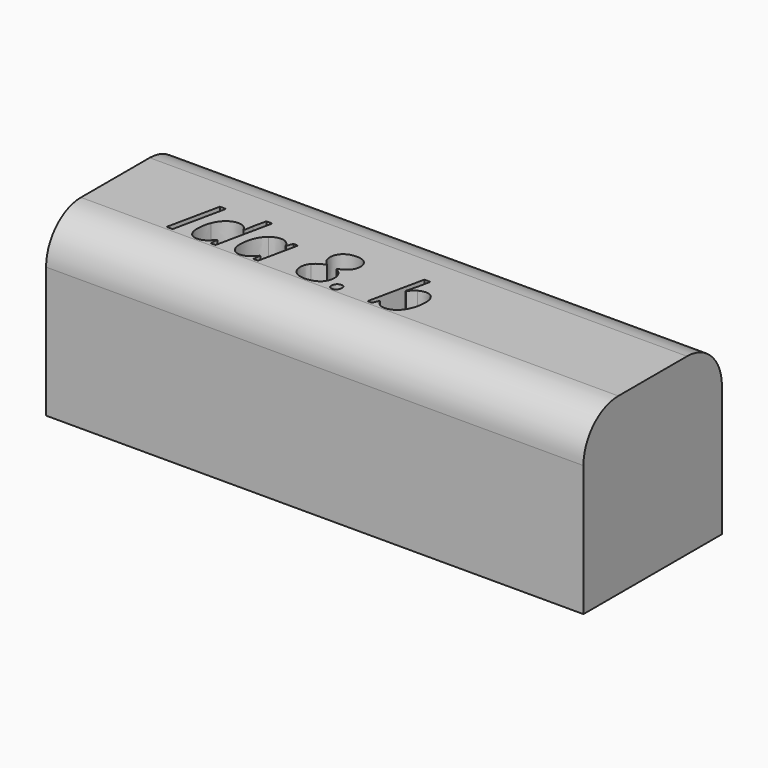
from build123d import *

# Parameters (mm, degrees)
F0_W     = 156.5491221845
F0_H     = 50.4242256284
F1_DEPTH = 50.8
F2_R     = 12.7
F4_DEPTH = 101.6


with BuildPart() as f1:
    # F0 (on Top) → F1 (new body)
    with BuildSketch(Plane.XY):
        with Locations((-61.6324953735, 25.2121128142)):
            Rectangle(F0_W, F0_H)
        Polygon((-113.8863454107, 13.5404672474), (-115.6491731526, 13.5404672474), (-112.3854235047, 28.8821052527), (-110.6225957628, 28.8821052527), align=None, mode=Mode.SUBTRACT)
        with BuildLine():
            add(Edge.make_bspline(
                [(-106.8618965801, 24.2114511784), (-105.5758717703, 25.228854618), (-103.9809323847, 25.228854618)],
                knots=[0, 0, 0, 1, 1, 1], degree=2))
            add(Edge.make_bspline(
                [(-103.9809323847, 25.228854618), (-101.9461255055, 25.228854618), (-101.0328128468, 23.2376987115)],
                knots=[0, 0, 0, 1, 1, 1], degree=2))
            Line((-101.0328128468, 23.2376987115), (-100.9287220659, 23.2376987115))
            add(Edge.make_bspline(
                [(-100.9287220659, 23.2376987115), (-100.7507604081, 24.8628580011), (-100.4552769009, 26.1119473726)],
                knots=[0, 0, 0, 1, 1, 1], degree=2))
            Line((-100.4552769009, 26.1119473726), (-99.6359817218, 29.8692887882))
            Line((-99.6359817218, 29.8692887882), (-97.8966583498, 29.8692887882))
            Line((-97.8966583498, 29.8692887882), (-101.3585162582, 13.5404672474))
            Line((-101.3585162582, 13.5404672474), (-102.8157871915, 13.5404672474))
            Line((-102.8157871915, 13.5404672474), (-102.5841012597, 15.7330891816))
            Line((-102.5841012597, 15.7330891816), (-102.6680454379, 15.7330891816))
            add(Edge.make_bspline(
                [(-102.6680454379, 15.7330891816), (-103.7290998502, 14.4235600019), (-104.6524858102, 13.8762439601)],
                knots=[0, 0, 0, 1, 1, 1], degree=2))
            add(Edge.make_bspline(
                [(-104.6524858102, 13.8762439601), (-105.5758717703, 13.3289279183), (-106.5630553057, 13.3289279183)],
                knots=[0, 0, 0, 1, 1, 1], degree=2))
            add(Edge.make_bspline(
                [(-106.5630553057, 13.3289279183), (-108.0203262391, 13.3289279183), (-108.8396214182, 14.3580835429)],
                knots=[0, 0, 0, 1, 1, 1], degree=2))
            add(Edge.make_bspline(
                [(-108.8396214182, 14.3580835429), (-109.6589165973, 15.3872391675), (-109.6589165973, 17.2138644848)],
                knots=[0, 0, 0, 1, 1, 1], degree=2))
            add(Edge.make_bspline(
                [(-109.6589165973, 17.2138644848), (-109.6589165973, 19.4602106931), (-108.9034189936, 21.3271292159)],
                knots=[0, 0, 0, 1, 1, 1], degree=2))
            add(Edge.make_bspline(
                [(-108.9034189936, 21.3271292159), (-108.1479213899, 23.1940477388), (-106.8618965801, 24.2114511784)],
                knots=[0, 0, 0, 1, 1, 1], degree=2))
        make_face(mode=Mode.SUBTRACT)
        with BuildLine():
            add(Edge.make_bspline(
                [(-67.987347662, 13.5085684597), (-68.2710789843, 13.7822264805), (-68.2710789843, 14.3161114538)],
                knots=[0, 0, 0, 1, 1, 1], degree=2))
            add(Edge.make_bspline(
                [(-68.2710789843, 14.3161114538), (-68.2710789843, 15.1253333315), (-67.8446425591, 15.6021362636)],
                knots=[0, 0, 0, 1, 1, 1], degree=2))
            add(Edge.make_bspline(
                [(-67.8446425591, 15.6021362636), (-67.4182061339, 16.0789391957), (-66.6761395987, 16.0789391957)],
                knots=[0, 0, 0, 1, 1, 1], degree=2))
            add(Edge.make_bspline(
                [(-66.6761395987, 16.0789391957), (-66.2228410365, 16.0789391957), (-65.9458252485, 15.8069600584)],
                knots=[0, 0, 0, 1, 1, 1], degree=2))
            add(Edge.make_bspline(
                [(-65.9458252485, 15.8069600584), (-65.6688094605, 15.5349809211), (-65.6688094605, 14.9775915779)],
                knots=[0, 0, 0, 1, 1, 1], degree=2))
            add(Edge.make_bspline(
                [(-65.6688094605, 14.9775915779), (-65.6688094605, 14.2321672756), (-66.0885303514, 13.7335388572)],
                knots=[0, 0, 0, 1, 1, 1], degree=2))
            add(Edge.make_bspline(
                [(-66.0885303514, 13.7335388572), (-66.5082512423, 13.2349104388), (-67.2200978734, 13.2349104388)],
                knots=[0, 0, 0, 1, 1, 1], degree=2))
            add(Edge.make_bspline(
                [(-67.2200978734, 13.2349104388), (-67.7036163397, 13.2349104388), (-67.987347662, 13.5085684597)],
                knots=[0, 0, 0, 1, 1, 1], degree=2))
        make_face(mode=Mode.SUBTRACT)
        with BuildLine():
            add(Edge.make_bspline(
                [(-94.4532681606, 24.1913045757), (-93.1420600973, 25.2523589879), (-91.5773406159, 25.2523589879)],
                knots=[0, 0, 0, 1, 1, 1], degree=2))
            add(Edge.make_bspline(
                [(-91.5773406159, 25.2523589879), (-90.6136614503, 25.2523589879), (-89.8581638467, 24.7319050832)],
                knots=[0, 0, 0, 1, 1, 1], degree=2))
            add(Edge.make_bspline(
                [(-89.8581638467, 24.7319050832), (-89.102666243, 24.2114511784), (-88.682945352, 23.2376987115)],
                knots=[0, 0, 0, 1, 1, 1], degree=2))
            Line((-88.682945352, 23.2376987115), (-88.5654235026, 23.2376987115))
            Line((-88.5654235026, 23.2376987115), (-87.8636501729, 25.0408196589))
            Line((-87.8636501729, 25.0408196589), (-86.5306166233, 25.0408196589))
            Line((-86.5306166233, 25.0408196589), (-88.9750710921, 13.5404672474))
            Line((-88.9750710921, 13.5404672474), (-90.3719022172, 13.5404672474))
            Line((-90.3719022172, 13.5404672474), (-90.0965653127, 15.7330891816))
            Line((-90.0965653127, 15.7330891816), (-90.1805094909, 15.7330891816))
            add(Edge.make_bspline(
                [(-90.1805094909, 15.7330891816), (-92.0608590823, 13.3289279183), (-94.1393169342, 13.3289279183)],
                knots=[0, 0, 0, 1, 1, 1], degree=2))
            add(Edge.make_bspline(
                [(-94.1393169342, 13.3289279183), (-95.5965878675, 13.3289279183), (-96.425956348, 14.3681568443)],
                knots=[0, 0, 0, 1, 1, 1], degree=2))
            add(Edge.make_bspline(
                [(-96.425956348, 14.3681568443), (-97.2553248284, 15.4073857702), (-97.2553248284, 17.2138644848)],
                knots=[0, 0, 0, 1, 1, 1], degree=2))
            add(Edge.make_bspline(
                [(-97.2553248284, 17.2138644848), (-97.2553248284, 19.3964131176), (-96.5099005261, 21.2633316405)],
                knots=[0, 0, 0, 1, 1, 1], degree=2))
            add(Edge.make_bspline(
                [(-96.5099005261, 21.2633316405), (-95.7644762238, 23.1302501634), (-94.4532681606, 24.1913045757)],
                knots=[0, 0, 0, 1, 1, 1], degree=2))
        make_face(mode=Mode.SUBTRACT)
        with BuildLine():
            add(Edge.make_bspline(
                [(-75.1108506229, 28.6151627661), (-74.0733005805, 29.1238644859), (-72.7805602364, 29.1238644859)],
                knots=[0, 0, 0, 1, 1, 1], degree=2))
            add(Edge.make_bspline(
                [(-72.7805602364, 29.1238644859), (-70.9572926862, 29.1238644859), (-69.9331737123, 28.2155884779)],
                knots=[0, 0, 0, 1, 1, 1], degree=2))
            add(Edge.make_bspline(
                [(-69.9331737123, 28.2155884779), (-68.9090547385, 27.3073124699), (-68.9090547385, 25.7425929885)],
                knots=[0, 0, 0, 1, 1, 1], degree=2))
            add(Edge.make_bspline(
                [(-68.9090547385, 25.7425929885), (-68.9090547385, 24.3894128362), (-69.7283499176, 23.3820826979)],
                knots=[0, 0, 0, 1, 1, 1], degree=2))
            add(Edge.make_bspline(
                [(-69.7283499176, 23.3820826979), (-70.5476450967, 22.3747525597), (-72.5186544005, 21.5353107778)],
                knots=[0, 0, 0, 1, 1, 1], degree=2))
            add(Edge.make_bspline(
                [(-72.5186544005, 21.5353107778), (-71.1856208509, 20.7193733659), (-70.6299103913, 19.8060607072)],
                knots=[0, 0, 0, 1, 1, 1], degree=2))
            add(Edge.make_bspline(
                [(-70.6299103913, 19.8060607072), (-70.0741999317, 18.8927480485), (-70.0741999317, 17.6839518826)],
                knots=[0, 0, 0, 1, 1, 1], degree=2))
            add(Edge.make_bspline(
                [(-70.0741999317, 17.6839518826), (-70.0741999317, 16.4046426071), (-70.7037812681, 15.4023491195)],
                knots=[0, 0, 0, 1, 1, 1], degree=2))
            add(Edge.make_bspline(
                [(-70.7037812681, 15.4023491195), (-71.3333626045, 14.400055632), (-72.5136177498, 13.8644917752)],
                knots=[0, 0, 0, 1, 1, 1], degree=2))
            add(Edge.make_bspline(
                [(-72.5136177498, 13.8644917752), (-73.6938728951, 13.3289279183), (-75.2888122806, 13.3289279183)],
                knots=[0, 0, 0, 1, 1, 1], degree=2))
            add(Edge.make_bspline(
                [(-75.2888122806, 13.3289279183), (-77.2833259543, 13.3289279183), (-78.4165723599, 14.3631201936)],
                knots=[0, 0, 0, 1, 1, 1], degree=2))
            add(Edge.make_bspline(
                [(-78.4165723599, 14.3631201936), (-79.5498187654, 15.3973124688), (-79.5498187654, 17.1702135121)],
                knots=[0, 0, 0, 1, 1, 1], degree=2))
            add(Edge.make_bspline(
                [(-79.5498187654, 17.1702135121), (-79.5498187654, 18.7248596922), (-78.5525619285, 19.8581060977)],
                knots=[0, 0, 0, 1, 1, 1], degree=2))
            add(Edge.make_bspline(
                [(-78.5525619285, 19.8581060977), (-77.5553050917, 20.9913525032), (-75.4466273356, 21.7871433124)],
                knots=[0, 0, 0, 1, 1, 1], degree=2))
            add(Edge.make_bspline(
                [(-75.4466273356, 21.7871433124), (-76.4438841725, 22.5124210119), (-76.8686417141, 23.304854054)],
                knots=[0, 0, 0, 1, 1, 1], degree=2))
            add(Edge.make_bspline(
                [(-76.8686417141, 23.304854054), (-77.2933992557, 24.0972870961), (-77.2933992557, 25.1046172343)],
                knots=[0, 0, 0, 1, 1, 1], degree=2))
            add(Edge.make_bspline(
                [(-77.2933992557, 25.1046172343), (-77.2933992557, 26.2697624275), (-76.7208999605, 27.1881117369)],
                knots=[0, 0, 0, 1, 1, 1], degree=2))
            add(Edge.make_bspline(
                [(-76.7208999605, 27.1881117369), (-76.1484006653, 28.1064610463), (-75.1108506229, 28.6151627661)],
                knots=[0, 0, 0, 1, 1, 1], degree=2))
        make_face(mode=Mode.SUBTRACT)
        with BuildLine():
            add(Edge.make_bspline(
                [(-49.0814398509, 14.373193495), (-50.3674646607, 13.3289279183), (-51.982550649, 13.3289279183)],
                knots=[0, 0, 0, 1, 1, 1], degree=2))
            add(Edge.make_bspline(
                [(-51.982550649, 13.3289279183), (-52.9999540886, 13.3289279183), (-53.7705616443, 13.8644917752)],
                knots=[0, 0, 0, 1, 1, 1], degree=2))
            add(Edge.make_bspline(
                [(-53.7705616443, 13.8644917752), (-54.5411692001, 14.400055632), (-54.9306701869, 15.323441592)],
                knots=[0, 0, 0, 1, 1, 1], degree=2))
            Line((-54.9306701869, 15.323441592), (-55.0347609678, 15.323441592))
            Line((-55.0347609678, 15.323441592), (-55.7701119687, 13.5404672474))
            Line((-55.7701119687, 13.5404672474), (-57.0829989156, 13.5404672474))
            Line((-57.0829989156, 13.5404672474), (-53.61778324, 29.8692887882))
            Line((-53.61778324, 29.8692887882), (-51.8549554981, 29.8692887882))
            add(Edge.make_bspline(
                [(-51.8549554981, 29.8692887882), (-52.3921982385, 27.3274590727), (-52.6809662115, 25.979315571)],
                knots=[0, 0, 0, 1, 1, 1], degree=2))
            add(Edge.make_bspline(
                [(-52.6809662115, 25.979315571), (-52.9697341844, 24.6311720693), (-53.4733992536, 22.8280511219)],
                knots=[0, 0, 0, 1, 1, 1], degree=2))
            Line((-53.4733992536, 22.8280511219), (-53.3760240069, 22.8280511219))
            add(Edge.make_bspline(
                [(-53.3760240069, 22.8280511219), (-52.4022715399, 24.0637094248), (-51.4520234428, 24.6462820214)],
                knots=[0, 0, 0, 1, 1, 1], degree=2))
            add(Edge.make_bspline(
                [(-51.4520234428, 24.6462820214), (-50.5017753458, 25.228854618), (-49.4944452075, 25.228854618)],
                knots=[0, 0, 0, 1, 1, 1], degree=2))
            add(Edge.make_bspline(
                [(-49.4944452075, 25.228854618), (-48.0170276714, 25.228854618), (-47.187659191, 24.1913045757)],
                knots=[0, 0, 0, 1, 1, 1], degree=2))
            add(Edge.make_bspline(
                [(-47.187659191, 24.1913045757), (-46.3582907105, 23.1537545333), (-46.3582907105, 21.3372025173)],
                knots=[0, 0, 0, 1, 1, 1], degree=2))
            add(Edge.make_bspline(
                [(-46.3582907105, 21.3372025173), (-46.3582907105, 19.1445805831), (-47.0768528758, 17.2810198274)],
                knots=[0, 0, 0, 1, 1, 1], degree=2))
            add(Edge.make_bspline(
                [(-47.0768528758, 17.2810198274), (-47.795415041, 15.4174590716), (-49.0814398509, 14.373193495)],
                knots=[0, 0, 0, 1, 1, 1], degree=2))
        make_face(mode=Mode.SUBTRACT)
    extrude(amount=F1_DEPTH)

    # F2
    f2_edges = [f1.edges().sort_by_distance(p)[0] for p in [
        (-61.632495, 50.424226, 50.8),
        (-61.632495, 0, 50.8),
    ]]
    fillet(f2_edges, radius=F2_R)

    # F3 (on face) → F4 (cut)
    with BuildSketch(Plane(origin=(-139.9070564657, 0, 0), x_dir=(0, -1, 0), z_dir=(-1, 0, 0))):
        Polygon((-3.7905950185, 33.6147174239), (-40.1339191858, 33.6147174239), (-21.9622571021, 2.140475437), align=None)
    extrude(amount=-F4_DEPTH, mode=Mode.SUBTRACT)


solid = f1.part
